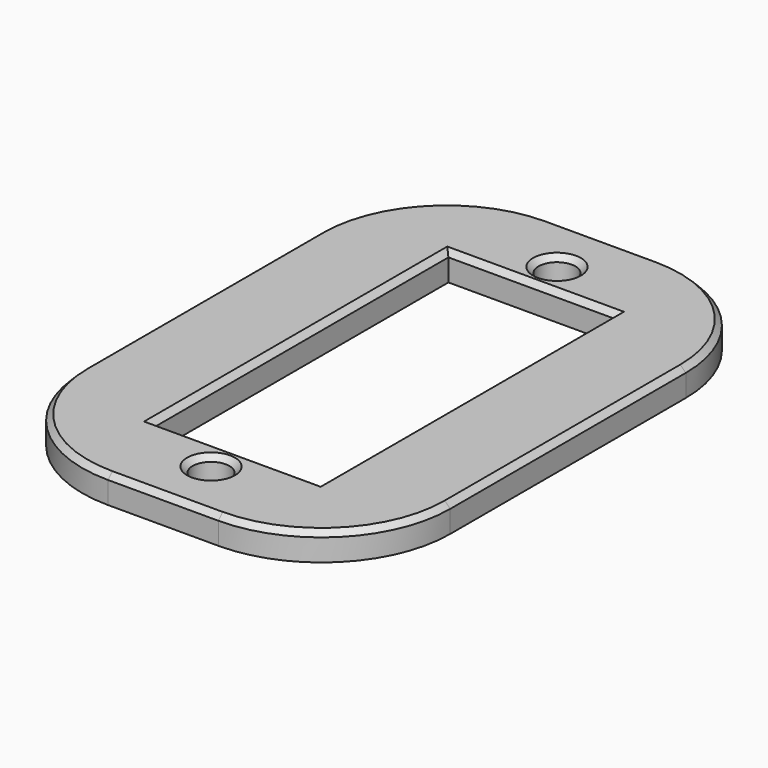
from build123d import *

# Parameters (mm, degrees)
F0_W     = 20
F0_H     = 30
F0_R     = 1
F0_W_2   = 9
F0_H_2   = 20
F1_DEPTH = 1.5
F2_R     = 7
F3_SIZE  = 0.3


with BuildPart() as f1:
    # F0 (on Top) → F1 (new body)
    with BuildSketch(Plane.XY):
        Rectangle(F0_W, F0_H)
        with Locations((0, -11.75)):
            Circle(F0_R, mode=Mode.SUBTRACT)
        Rectangle(F0_W_2, F0_H_2, mode=Mode.SUBTRACT)
        with Locations((0, 11.75)):
            Circle(F0_R, mode=Mode.SUBTRACT)
    extrude(amount=F1_DEPTH)

    # F2
    f2_edges = [f1.edges().sort_by_distance(p)[0] for p in [
        (-10, -15, 0.75),
        (10, -15, 0.75),
        (10, 15, 0.75),
        (-10, 15, 0.75),
    ]]
    fillet(f2_edges, radius=F2_R)

    # F3
    f3_edges = [f1.edges().sort_by_distance(p)[0] for p in [
        (-1, -11.75, 1.5),
        (-1, 11.75, 1.5),
        (0, 10, 1.5),
        (-4.5, 0, 1.5),
        (0, -10, 1.5),
        (4.5, 0, 1.5),
        (0, 15, 1.5),
        (-7.949747, 12.949747, 1.5),
        (-10, 0, 1.5),
        (7.949747, 12.949747, 1.5),
        (10, 0, 1.5),
        (7.949747, -12.949747, 1.5),
        (0, -15, 1.5),
        (-7.949747, -12.949747, 1.5),
    ]]
    chamfer(f3_edges, length=F3_SIZE)


solid = f1.part
